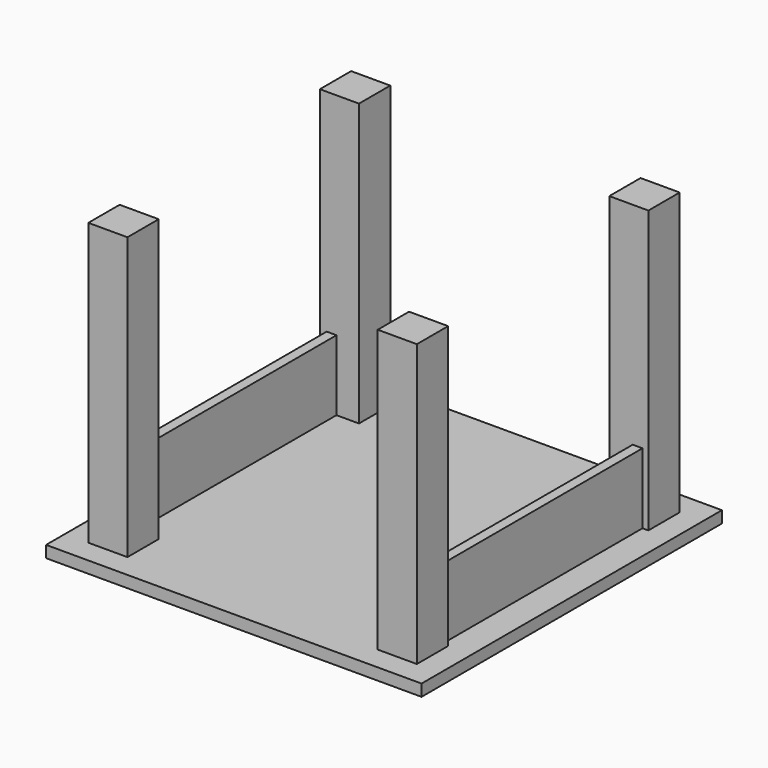
from build123d import *

# Parameters (mm, degrees)
F0_W          = 609.6
F0_H          = 19.05
F1_DEPTH      = 609.6
F2_W          = 63.5
F2_H          = 63.5
F3_DEPTH      = 457.2
F4_W          = 15.875
F4_H          = 114.3
F5_DEPTH      = 406.4
F5_DEPTH_BACK = 25.4


with BuildPart() as f1:
    # F0 (on Front) → F1 (new body)
    with BuildSketch(Plane.XZ):
        with Locations((1.469785, -9.525)):
            Rectangle(F0_W, F0_H)
    extrude(amount=F1_DEPTH)


with BuildPart() as f3:
    # F2 (on face) → F3 (new body)
    with BuildSketch(Plane.XY):
        with Locations((-233.480215, -539.75)):
            Rectangle(F2_W, F2_H)
        with Locations((-233.480215, -69.85)):
            Rectangle(F2_W, F2_H)
        with Locations((236.419785, -69.85)):
            Rectangle(F2_W, F2_H)
        with Locations((236.419785, -539.75)):
            Rectangle(F2_W, F2_H)
    extrude(amount=F3_DEPTH)


with BuildPart() as f5:
    # F4 (on face) → F5 (new body, two sides)
    with BuildSketch(Plane.XZ.offset(101.6)) as f5_sk:
        with Locations((250.707285, 57.15)):
            Rectangle(F4_W, F4_H)
    extrude(amount=F5_DEPTH)
    extrude(f5_sk.sketch, amount=-F5_DEPTH_BACK)


with BuildPart() as f6_1:
    # F6: copy of F5
    add(f5.part.moved(Location((-496.92386, 0, 0))))


solid = Compound([f1.part, f3.part, f5.part, f6_1.part])
